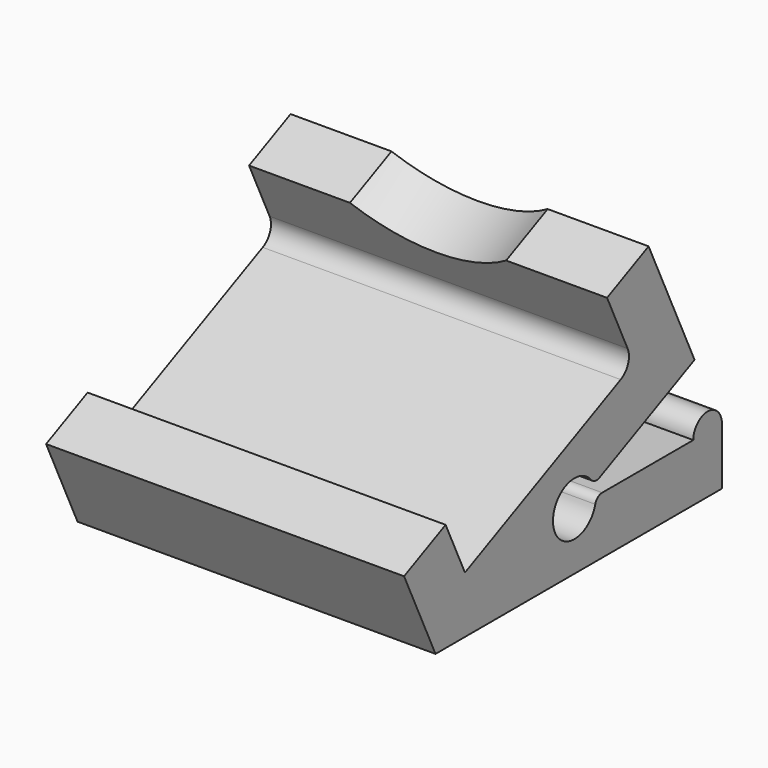
from build123d import *

# Parameters (mm, degrees)
F1_DEPTH = 10
F3_DEPTH = 3.2


with BuildPart() as f1:
    # F0 (on Right) → F1 (new body, symmetric)
    with BuildSketch(Plane.YZ):
        with BuildLine():
            Line((-2.1976149611, 4.7128004926), (0, 0))
            Line((0, 0), (20, 0))
            Line((20, 0), (20, 3.2))
            ThreePointArc((20, 3.2), (19, 4.2), (18, 3.2))
            Line((18, 3.2), (11.6383557185, 3.2))
            ThreePointArc((11.6383557185, 3.2), (11.3321695007, 3.0952847075), (11.1542328002, 2.825))
            ThreePointArc((11.1542328002, 2.825), (8.2374200347, 2.8753405791), (10.8596753094, 4.1536629787))
            ThreePointArc((10.8596753094, 4.1536629787), (11.1351679799, 3.9839011426), (11.4569215283, 4.0183967448))
            Line((11.4569215283, 4.0183967448), (18.0895129826, 7.1112249333))
            Line((18.0895129826, 7.1112249333), (14.8776141934, 13.9991641148))
            Line((14.8776141934, 13.9991641148), (11.9774292749, 12.6467856772))
            Line((11.9774292749, 12.6467856772), (13.4143313648, 9.5653392013))
            ThreePointArc((13.4143313648, 9.5653392013), (13.4477161985, 8.8007007962), (12.9306418395, 8.2364131525))
            Line((12.9306418395, 8.2364131525), (2.054948395, 3.1649940116))
            Line((2.054948395, 3.1649940116), (0.7025699575, 6.0651789302))
            Line((0.7025699575, 6.0651789302), (-2.1976149611, 4.7128004926))
        make_face()
    extrude(amount=F1_DEPTH, both=True)

    # F2 (on face) → F3 (cut, through all)
    with BuildSketch(Plane(origin=(0, 14.68218615, 6.8464158402), x_dir=(1, 0, 0), z_dir=(0, -0.906307787, -0.4226182617))):
        with BuildLine():
            Line((4.3634848459, 6.4), (-4.3634848459, 6.4))
            ThreePointArc((-4.3634848459, 6.4), (0, 5), (4.3634848459, 6.4))
        make_face()
    extrude(amount=-F3_DEPTH, mode=Mode.SUBTRACT)


solid = f1.part
